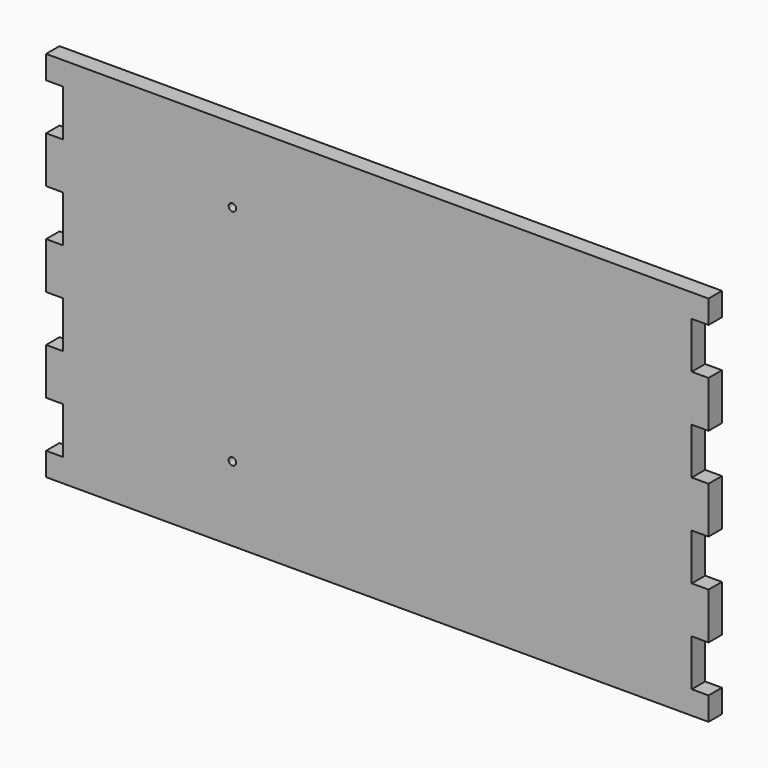
from build123d import *

# Parameters (mm, degrees)
F1_DEPTH = 18
F2_R     = 4
F3_DEPTH = 14


with BuildPart() as f1:
    # F0 (on Front) → F1 (new body)
    with BuildSketch(Plane.XZ):
        Polygon((355.5, 202), (-355.5, 202), (-355.5, 177), (-337.5, 177), (-337.5, 127), (-355.5, 127), (-355.5, 77), (-337.5, 77), (-337.5, 27), (-355.5, 27), (-355.5, -23), (-337.5, -23), (-337.5, -73), (-355.5, -73), (-355.5, -123), (-337.5, -123), (-337.5, -173), (-355.5, -173), (-355.5, -198), (355.5, -198), (355.5, -173), (337.5, -173), (337.5, -123), (355.5, -123), (355.5, -73), (337.5, -73), (337.5, -23), (355.5, -23), (355.5, 27), (337.5, 27), (337.5, 77), (355.5, 77), (355.5, 127), (337.5, 127), (337.5, 177), (355.5, 177), align=None)
    extrude(amount=F1_DEPTH)

    # F2 (on face) → F3 (cut)
    with BuildSketch(Plane.XZ.offset(18)):
        with Locations((-155.5, -118)):
            Circle(F2_R)
        with Locations((-155.5, 122)):
            Circle(F2_R)
    extrude(amount=-F3_DEPTH, mode=Mode.SUBTRACT)


solid = f1.part
